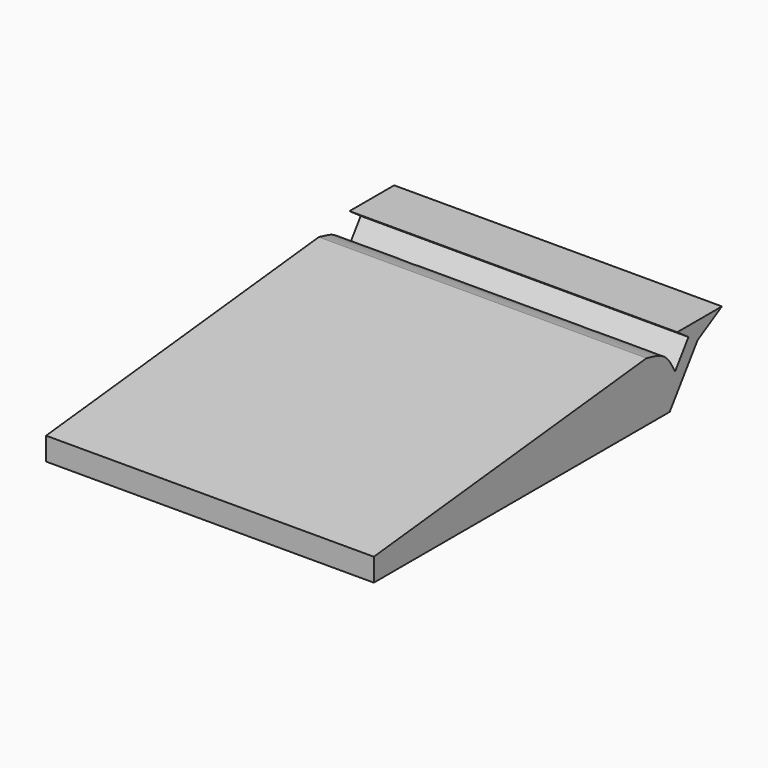
from build123d import *

# Parameters (mm, degrees)
F1_DEPTH = 126


with BuildPart() as f1:
    # F0 (on Right) → F1 (new body)
    with BuildSketch(Plane.YZ):
        with BuildLine():
            Line((56.8672604859, 22.7190274745), (-74.1504505277, 8.7809739634))
            Line((-74.1504505277, 8.7809739634), (-74.1504505277, 0))
            Line((-74.1504505277, 0), (68.0176988244, 0))
            Line((68.0176988244, 0), (81.3982263207, 18.8163723797))
            Line((81.3982263207, 18.8163723797), (93.1062027812, 25.5066398531))
            Line((93.1062027812, 25.5066398531), (71.6415941715, 25.5066398531))
            Line((71.6415941715, 25.5066398531), (77.0312156656, 21.6740212622))
            Line((77.0312156656, 21.6740212622), (70.5830478746, 12.6062826134))
            add(Edge.make_bspline(
                [(56.8672604859, 22.7190274745), (60.0372849077, 22.0495257048), (66.2921376384, 20.7285153858), (69.1657916202, 15.2889966677), (70.5830478746, 12.6062826134)],
                knots=[0, 0, 0, 0, 0.5068104012, 1, 1, 1, 1], degree=3))
        make_face()
    extrude(amount=F1_DEPTH)


solid = f1.part
